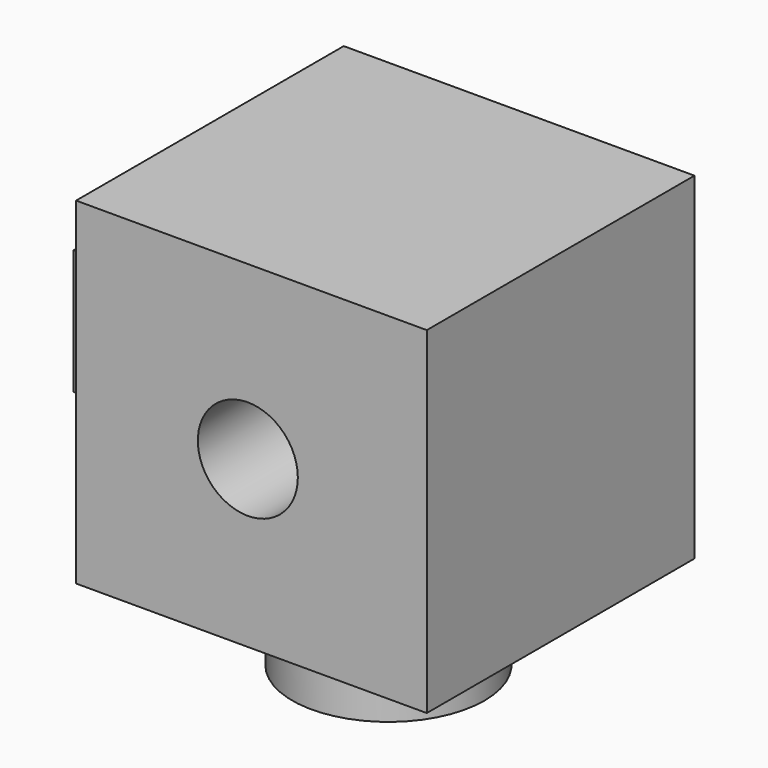
from build123d import *

# Parameters (mm, degrees)
F0_W     = 53.24851
F0_H     = 51.189933
F1_DEPTH = 50.8
F2_R     = 7.591655
F3_DEPTH = 50.8
F4_W     = 19.213377
F4_H     = 18.938902
F5_DEPTH = 12.7
F6_R     = 14.591229
F7_DEPTH = 12.7


with BuildPart() as f1:
    # F0 (on Front) → F1 (new body)
    with BuildSketch(Plane.XZ):
        with Locations((-26.624255, 25.594966)):
            Rectangle(F0_W, F0_H)
        with Locations((-26.624255, 25.594966)):
            Rectangle(F0_W, F0_H)
    extrude(amount=F1_DEPTH)

    # F2 (on face) → F3 (cut)
    with BuildSketch(Plane.XZ.offset(50.8)):
        with Locations((-27.173208, 25.114631)):
            Circle(F2_R)
    extrude(amount=-F3_DEPTH, mode=Mode.SUBTRACT)

    # F4 (on face) → F5 (join)
    with BuildSketch(Plane(origin=(-53.24851, 0, 0), x_dir=(0, -1, 0), z_dir=(-1, 0, 0))):
        with Locations((25.800821, 24.702916)):
            Rectangle(F4_W, F4_H)
    extrude(amount=F5_DEPTH)

    # F6 (on face) → F7 (join)
    with BuildSketch(Plane(origin=(0, 0, 0), x_dir=(1, 0, 0), z_dir=(0, 0, -1))):
        with Locations((-26.487015, 24.977392)):
            Circle(F6_R)
    extrude(amount=F7_DEPTH)


solid = f1.part
